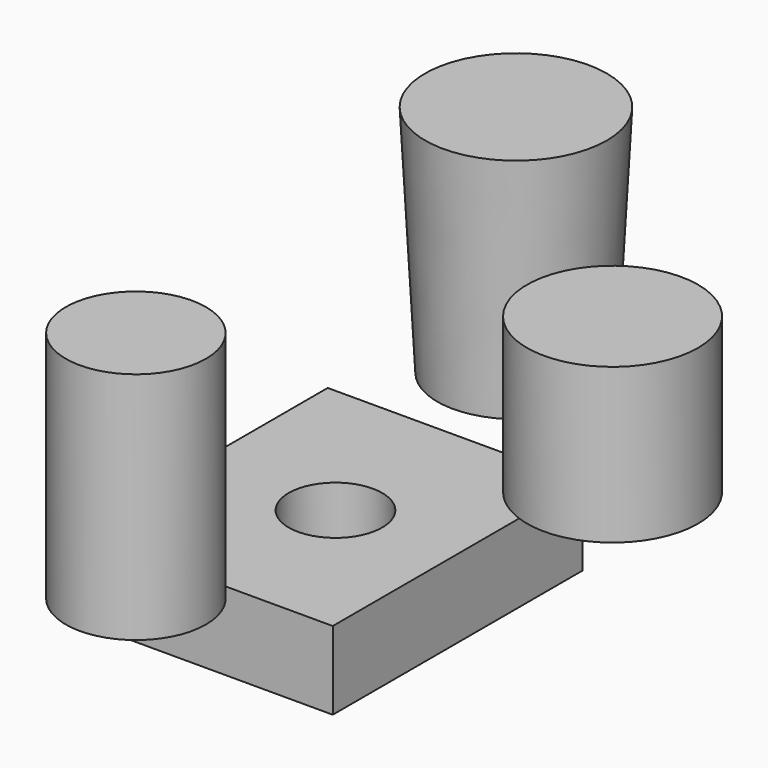
from build123d import *

# Parameters (mm, degrees)
F0_W     = 81.6221088171
F0_H     = 25.0464975834
F1_DEPTH = 100
F2_R     = 25.200211847
F3_DEPTH = 75
F3_TAPER = -3
F4_R     = 22.4765508503
F6_DEPTH = 75
F8_START = 25.4
F7_R     = 27.4263111982
F8_DEPTH = 49.6
F10_D    = 30


with BuildPart() as f1:
    # F0 (on Front) → F1 (new body)
    with BuildSketch(Plane.XZ):
        with Locations((16.0592272878, -18.4165388346)):
            Rectangle(F0_W, F0_H)
    extrude(amount=F1_DEPTH)

    # F10 (through all)
    with Locations(Plane.XY.offset(-5.8932900429)):
        with Locations((18.1968174875, -50.5730137229)):
            Hole(F10_D / 2)


with BuildPart() as f3:
    # F2 (on Top) → F3 (new body)
    with BuildSketch(Plane.XY):
        with Locations((13.9723531902, 27.0348433405)):
            Circle(F2_R)
    extrude(amount=F3_DEPTH, taper=F3_TAPER)


with BuildPart() as f6:
    # F4 (on Top) → F6 (new body)
    with BuildSketch(Plane.XY):
        with Locations((16.1882545799, -128.048568964)):
            Circle(F4_R)
    extrude(amount=F6_DEPTH)


with BuildPart() as f8:
    # F7 (on Top) → F8 (new body)
    with BuildSketch(Plane.XY.offset(F8_START)):
        with Locations((103.7478968501, -46.4826561511)):
            Circle(F7_R)
    extrude(amount=F8_DEPTH)


solid = Compound([f1.part, f3.part, f6.part, f8.part])
